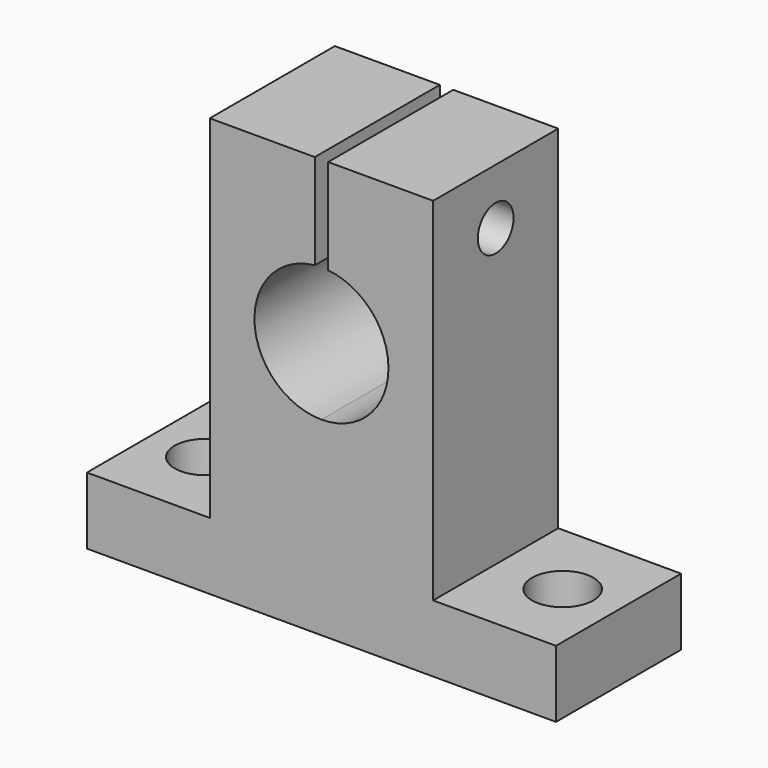
from build123d import *

# Parameters (mm, degrees)
OBJ1_R                     = 2.75
OBJ1_DEPTH                 = 8
OBJ2                     = 2.75
OBJ3                 = 8
OBJ4_PLACEMENT_ANGLE        = 90
TBOLT_SHAFT_R                    = 2
TBOLT_SHAFT_DEPTH                = 22
TBOLT_SHAFT_ROLL_ANGLE           = 90
UP_SEP_W                         = 16
UP_SEP_H                         = 1.2
UP_SEP_DEPTH                     = 15.5
SHAFT_HOLE_R                     = 6
SHAFT_HOLE_DEPTH                 = 16
SHAFT_HOLE_PITCH_ANGLE           = 90
TBOLT_HEAD_R                     = 3.85
TBOLT_HEAD_DEPTH                 = 5.4
TBOLT_HEAD_ROLL_ANGLE            = 90
SIDE_BOX_L_W                     = 14
SIDE_BOX_L_H                     = 11
SIDE_BOX_L_DEPTH                 = 31.5
SIDE_BOX_R_W                     = 14
SIDE_BOX_R_H                     = 11
SIDE_BOX_R_DEPTH                 = 31.5
TOTAL_BOX_W                      = 14
TOTAL_BOX_H                      = 42
TOTAL_BOX_DEPTH                  = 37.5
SK_SHAPE_W_HOLES_PLACEMENT_ANGLE = 90


with BuildPart() as obj1:
    # obj1 → obj1 (new body)
    with BuildSketch(Plane(origin=(7, -16, -1), x_dir=(1, 0, 0), z_dir=(0, 0, 1))):
        Circle(OBJ1_R)
    extrude(amount=OBJ1_DEPTH)


with BuildPart() as obj4:
    with BuildSketch(Plane(origin=(7, 16, -1), x_dir=(1, 0, 0), z_dir=(0, 0, 1))):
        Circle(OBJ2)
    extrude(amount=OBJ3)

    # obj4: union obj1
    add(obj1.part)


with BuildPart() as obj4_1:
    # obj4 placement: moved
    add(obj4.part.moved(Location((0, -7, 0))).rotate(Axis((0, -7, 0), (0, 0, 1)), OBJ4_PLACEMENT_ANGLE))


with BuildPart() as tbolt_shaft:
    # tbolt_shaft → tbolt_shaft (new body)
    with BuildSketch(Plane.XY):
        Circle(TBOLT_SHAFT_R)
    extrude(amount=TBOLT_SHAFT_DEPTH)


with BuildPart() as tbolt_shaft_1:
    # tbolt_shaft roll: moved
    add(tbolt_shaft.part.rotate(Axis((0, 0, 0), (1, 0, 0)), TBOLT_SHAFT_ROLL_ANGLE))


with BuildPart() as tbolt_shaft_2:
    # tbolt_shaft placement: moved
    add(tbolt_shaft_1.part.moved(Location((7, 11, 32.5))))


with BuildPart() as up_sep:
    # up_sep → up_sep (new body)
    with BuildSketch(Plane(origin=(-1, -0.6, 24), x_dir=(1, 0, 0), z_dir=(0, 0, 1))):
        with Locations((8, 0.6)):
            Rectangle(UP_SEP_W, UP_SEP_H)
    extrude(amount=UP_SEP_DEPTH)


with BuildPart() as shaft_hole:
    # shaft_hole → shaft_hole (new body)
    with BuildSketch(Plane.XY):
        Circle(SHAFT_HOLE_R)
    extrude(amount=SHAFT_HOLE_DEPTH)


with BuildPart() as shaft_hole_1:
    # shaft_hole pitch: moved
    add(shaft_hole.part.rotate(Axis((0, 0, 0), (0, 1, 0)), SHAFT_HOLE_PITCH_ANGLE))


with BuildPart() as shaft_hole_2:
    # shaft_hole placement: moved
    add(shaft_hole_1.part.moved(Location((-1, 0, 23))))


with BuildPart() as fuse_shaft_holes:
    # tbolt_head → tbolt_head (new body)
    with BuildSketch(Plane.XY):
        Circle(TBOLT_HEAD_R)
    extrude(amount=TBOLT_HEAD_DEPTH)


with BuildPart() as fuse_shaft_holes_1:
    # tbolt_head roll: moved
    add(fuse_shaft_holes.part.rotate(Axis((0, 0, 0), (1, 0, 0)), TBOLT_HEAD_ROLL_ANGLE))


with BuildPart() as fuse_shaft_holes_2:
    # tbolt_head placement: moved
    add(fuse_shaft_holes_1.part.moved(Location((7, 11, 32.5))))

    # fuse_shaft_holes: union tbolt_shaft, up_sep, shaft_hole
    add(tbolt_shaft_2.part)
    add(up_sep.part)
    add(shaft_hole_2.part)


with BuildPart() as side_box_l:
    # side_box_l → side_box_l (new body)
    with BuildSketch(Plane(origin=(0, -21, 6), x_dir=(1, 0, 0), z_dir=(0, 0, 1))):
        with Locations((7, 5.5)):
            Rectangle(SIDE_BOX_L_W, SIDE_BOX_L_H)
    extrude(amount=SIDE_BOX_L_DEPTH)


with BuildPart() as side_boxes:
    # side_box_r → side_box_r (new body)
    with BuildSketch(Plane(origin=(0, 10, 6), x_dir=(1, 0, 0), z_dir=(0, 0, 1))):
        with Locations((7, 5.5)):
            Rectangle(SIDE_BOX_R_W, SIDE_BOX_R_H)
    extrude(amount=SIDE_BOX_R_DEPTH)

    # side_boxes: union side_box_l
    add(side_box_l.part)


with BuildPart() as obj5:
    # total_box → total_box (new body)
    with BuildSketch(Plane(origin=(0, -21, 0), x_dir=(1, 0, 0), z_dir=(0, 0, 1))):
        with Locations((7, 21)):
            Rectangle(TOTAL_BOX_W, TOTAL_BOX_H)
    extrude(amount=TOTAL_BOX_DEPTH)

    # sk_shape: cut side_boxes
    add(side_boxes.part, mode=Mode.SUBTRACT)

    # sk_shape_w_holes: cut fuse_shaft_holes
    add(fuse_shaft_holes_2.part, mode=Mode.SUBTRACT)


with BuildPart() as obj5_1:
    # sk_shape_w_holes placement: moved
    add(obj5.part.moved(Location((0, -7, 0))).rotate(Axis((0, -7, 0), (0, 0, 1)), SK_SHAPE_W_HOLES_PLACEMENT_ANGLE))

    # sk12_fr: cut obj4
    add(obj4_1.part, mode=Mode.SUBTRACT)


with BuildPart() as obj5_2:
    # sk12_fr placement: moved
    add(obj5_1.part.moved(Location((96.9, 286, 30))))


with BuildPart() as obj5_3:
    # Clone015 placement: moved
    add(obj5_2.part.moved(Location((0, 534, 0))))


solid = obj5_3.part
